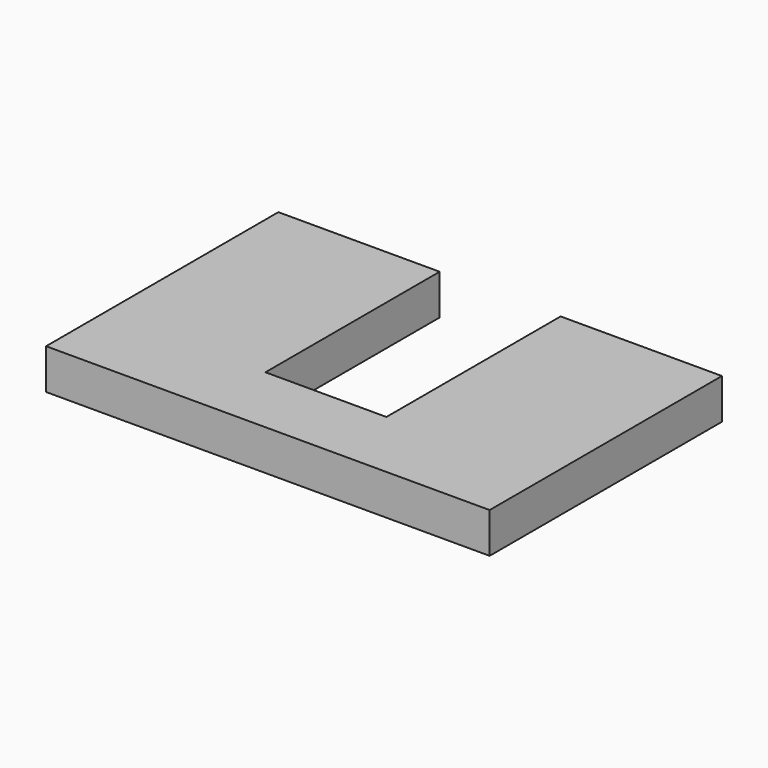
from build123d import *

# Parameters (mm, degrees)
F0_W     = 30
F0_H     = 18
F1_DEPTH = 10


with BuildPart() as f1:
    # F0 (on Top) → F1 (new body)
    with BuildSketch(Plane.XY):
        Polygon((-35.350685, 53.570255), (-75.350685, 53.570255), (-75.350685, -18.429745), (-35.350685, -18.429745), (-35.350685, -0.429745), align=None)
        with Locations((-20.350685, -9.429745)):
            Rectangle(F0_W, F0_H)
        Polygon((-5.350685, 53.570255), (-5.350685, -0.429745), (-5.350685, -18.429745), (34.649315, -18.429745), (34.649315, 53.570255), align=None)
    extrude(amount=F1_DEPTH)


solid = f1.part
